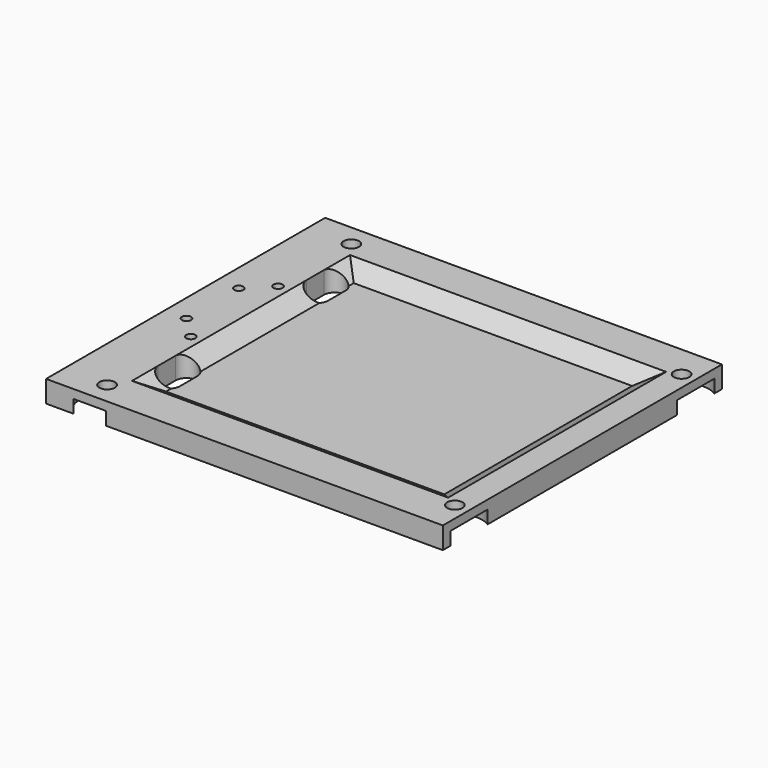
from build123d import *

# Parameters (mm, degrees)
SKETCH008_W         = 182
SKETCH008_H         = 160
PAD004_DEPTH        = 10
HOLE003_D           = 7.1
HOLE003_DEPTH       = 52
HOLE003_CBORE_D     = 25
HOLE003_CBORE_DEPTH = 16
POCKET001_DEPTH     = 29
SKETCH011_W         = 145
SKETCH011_H         = 125
POCKET002_DEPTH     = 5
POCKET002_TAPER     = 60
SKETCH012_R         = 2.1
HOLE004_DEPTH       = 25


with BuildPart() as part:
    # Sketch008 → Pad004 (new body)
    with BuildSketch(Plane.XY):
        with Locations((91, 82)):
            Rectangle(SKETCH008_W, SKETCH008_H)
    extrude(amount=-PAD004_DEPTH)

    # Hole003
    with Locations(Plane(origin=(0, 0, -20), x_dir=(1, 0, 0), z_dir=(0, 0, -1))):
        with Locations((20, -152), (20, -12), (175.5, -147), (175.5, -17)):
            CounterBoreHole(HOLE003_D / 2, HOLE003_CBORE_D / 2, HOLE003_CBORE_DEPTH, depth=HOLE003_DEPTH)

    # Sketch010 → Pocket001 (cut)
    with BuildSketch(Plane.XY):
        with BuildLine():
            ThreePointArc((35, 130), (30, 135), (25, 130))
            Line((25, 130), (25, 120))
            ThreePointArc((25, 120), (30, 115), (35, 120))
            Line((35, 130), (35, 120))
        make_face()
        with BuildLine():
            ThreePointArc((35, 45), (30, 50), (25, 45))
            Line((25, 45), (25, 35))
            ThreePointArc((25, 35), (30, 30), (35, 35))
            Line((35, 45), (35, 35))
        make_face()
    extrude(amount=-POCKET001_DEPTH, mode=Mode.SUBTRACT)

    # Sketch011 → Pocket002 (cut)
    with BuildSketch(Plane.XY):
        with Locations((97.5, 82.5)):
            Rectangle(SKETCH011_W, SKETCH011_H)
    extrude(amount=-POCKET002_DEPTH, taper=POCKET002_TAPER, mode=Mode.SUBTRACT)

    # Sketch012 → Hole004 (cut)
    with BuildSketch(Plane.XY.offset(-20)):
        with Locations((20, 60)):
            Circle(SKETCH012_R)
        with Locations((20, 110)):
            Circle(SKETCH012_R)
        with Locations((10, 100)):
            Circle(SKETCH012_R)
        with Locations((10, 70)):
            Circle(SKETCH012_R)
    extrude(amount=HOLE004_DEPTH, mode=Mode.SUBTRACT)


with BuildPart() as part_1:
    # Body002 placement: moved
    add(part.part.moved(Location((-80, -12, -116))))


solid = part_1.part
